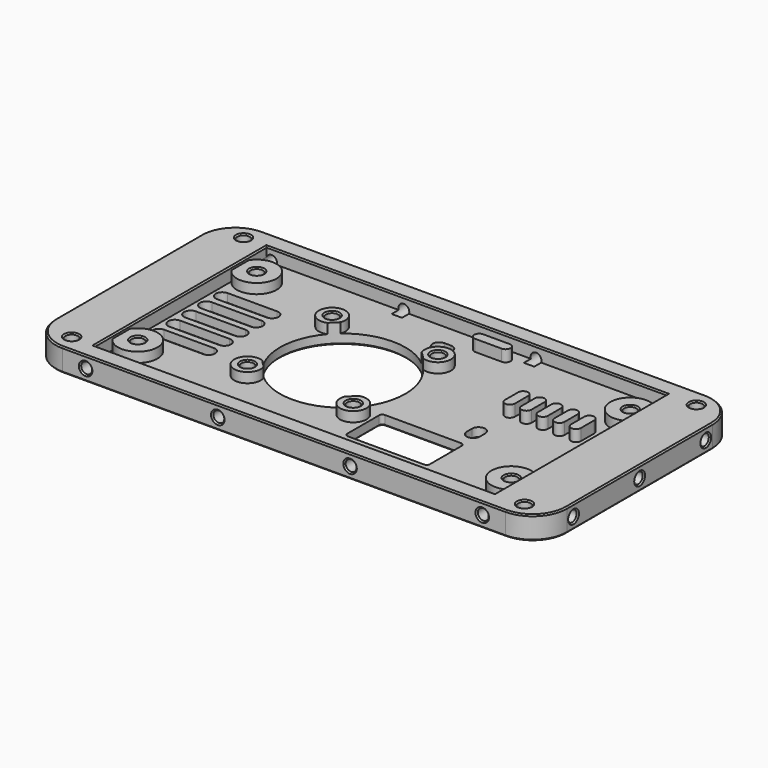
from build123d import *

# Parameters (mm, degrees)
SKETCH008_W           = 154.7
SKETCH008_H           = 75.7
PAD006_DEPTH          = 7
FILLET001_R           = 10.35
SKETCH009_R           = 1.65
POCKET008005_DEPTH    = 8
SKETCH010_R           = 1.65
POCKET008006_DEPTH    = 8
SKETCH011_R           = 1.65
POCKET008007_DEPTH    = 8
SKETCH012_R           = 1.65
POCKET008008_DEPTH    = 7
SKETCH013_W           = 121
SKETCH013_H           = 65
POCKET008009_DEPTH    = 4
SKETCH014_R           = 1.9
POCKET008010_DEPTH    = 7.001
POCKET008011_DEPTH    = 7.001
SKETCH016_R           = 6
SKETCH016_R_2         = 1.9
PAD007_DEPTH          = 3
SKETCH017_R           = 4
PAD008_DEPTH          = 3
SKETCH018_R           = 19
SKETCH018_R_2         = 1.9
SKETCH018_R_3         = 4
POCKET008012_DEPTH    = 7.001
PAD009_DEPTH          = 3.5
CHAMFER036003002_SIZE = 0.4
SKETCH030_W           = 0.5
SKETCH030_H           = 55
POCKET008022_DEPTH    = 5
SKETCH038_W           = 25
SKETCH038_H           = 14
POCKET008027_DEPTH    = 7.001
FILLET008_R           = 1
CHAMFER036003011_SIZE = 0.4
SKETCH039_R           = 5
PAD016_DEPTH          = 3
POCKET008028_DEPTH    = 7.001
CHAMFER036003012_SIZE = 0.4


with BuildPart() as part:
    # Sketch008 → Pad006 (new body)
    with BuildSketch(Plane.XY):
        Rectangle(SKETCH008_W, SKETCH008_H)
    extrude(amount=PAD006_DEPTH)

    # Fillet001
    fillet001_edges = [part.edges().sort_by_distance(p)[0] for p in [
        (77.35, -37.85, 3.5),
        (-77.35, -37.85, 3.5),
        (-77.35, 37.85, 3.5),
        (77.35, 37.85, 3.5),
    ]]
    fillet(fillet001_edges, radius=FILLET001_R)

    # Sketch009 (on Face1 of Fillet001) → Pocket008005 (cut)
    with BuildSketch(Plane(origin=(0, 37.85, 0), x_dir=(-1, 0, 0), z_dir=(0, 1, 0))):
        with Locations((-60, 3.5)):
            Circle(SKETCH009_R)
        with Locations((-20, 3.5)):
            Circle(SKETCH009_R)
        with Locations((20, 3.5)):
            Circle(SKETCH009_R)
        with Locations((60, 3.5)):
            Circle(SKETCH009_R)
    extrude(amount=-POCKET008005_DEPTH, mode=Mode.SUBTRACT)

    # Sketch010 (on Face14 of Pocket008005) → Pocket008006 (cut)
    with BuildSketch(Plane.XZ.offset(37.85)):
        with Locations((-60, 3.5)):
            Circle(SKETCH010_R)
        with Locations((-20, 3.5)):
            Circle(SKETCH010_R)
        with Locations((20, 3.5)):
            Circle(SKETCH010_R)
        with Locations((60, 3.5)):
            Circle(SKETCH010_R)
    extrude(amount=-POCKET008006_DEPTH, mode=Mode.SUBTRACT)

    # Sketch011 (on Face11 of Pocket008006) → Pocket008007 (cut)
    with BuildSketch(Plane.YZ.offset(77.35)):
        with Locations((-25, 3.5)):
            Circle(SKETCH011_R)
        with Locations((0, 3.5)):
            Circle(SKETCH011_R)
        with Locations((25, 3.5)):
            Circle(SKETCH011_R)
    extrude(amount=-POCKET008007_DEPTH, mode=Mode.SUBTRACT)

    # Sketch012 (on Face10 of Pocket008007) → Pocket008008 (cut)
    with BuildSketch(Plane(origin=(-77.35, 0, 0), x_dir=(0, -1, 0), z_dir=(-1, 0, 0))):
        with Locations((-25, 3.5)):
            Circle(SKETCH012_R)
        with Locations((0, 3.5)):
            Circle(SKETCH012_R)
        with Locations((25, 3.5)):
            Circle(SKETCH012_R)
    extrude(amount=-POCKET008008_DEPTH, mode=Mode.SUBTRACT)

    # Sketch013 (on Face5 of Pocket008008) → Pocket008009 (cut)
    with BuildSketch(Plane.XY.offset(7)):
        with Locations((-1, 0)):
            Rectangle(SKETCH013_W, SKETCH013_H)
    extrude(amount=-POCKET008009_DEPTH, mode=Mode.SUBTRACT)

    # Sketch014 (on Face2 of Pocket008009) → Pocket008010 (cut, through all)
    with BuildSketch(Plane(origin=(0, 0, 0), x_dir=(1, 0, 0), z_dir=(0, 0, -1))):
        with Locations((-68.5, 32.5)):
            Circle(SKETCH014_R)
        with Locations((-56.5, 22.5)):
            Circle(SKETCH014_R)
        with Locations((-68.5, -32.5)):
            Circle(SKETCH014_R)
        with Locations((-56.5, -22.5)):
            Circle(SKETCH014_R)
        with Locations((56.5, 22.5)):
            Circle(SKETCH014_R)
        with Locations((68.5, 32.5)):
            Circle(SKETCH014_R)
        with Locations((56.5, -22.5)):
            Circle(SKETCH014_R)
        with Locations((68.5, -32.5)):
            Circle(SKETCH014_R)
    extrude(amount=-POCKET008010_DEPTH, mode=Mode.SUBTRACT)

    # Sketch015 (on Face2 of Pocket008010) → Pocket008011 (cut, through all)
    with BuildSketch(Plane(origin=(0, 0, 0), x_dir=(1, 0, 0), z_dir=(0, 0, -1))):
        with BuildLine():
            ThreePointArc((-58.5, 2), (-60.5, 0), (-58.5, -2))
            Line((-58.5, -2), (-43.5, -2))
            ThreePointArc((-43.5, -2), (-41.5, 0), (-43.5, 2))
            Line((-58.5, 2), (-43.5, 2))
        make_face()
        with BuildLine():
            ThreePointArc((-58.5, 8), (-60.5, 6), (-58.5, 4))
            Line((-58.5, 4), (-43.5, 4))
            ThreePointArc((-43.5, 4), (-41.5, 6), (-43.5, 8))
            Line((-58.5, 8), (-43.5, 8))
        make_face()
        with BuildLine():
            ThreePointArc((-58.5, 14), (-60.5, 12), (-58.5, 10))
            Line((-58.5, 10), (-43.5, 10))
            ThreePointArc((-43.5, 10), (-41.5, 12), (-43.5, 14))
            Line((-58.5, 14), (-43.5, 14))
        make_face()
        with BuildLine():
            ThreePointArc((-58.5, -4), (-60.5, -6), (-58.5, -8))
            Line((-58.5, -8), (-43.5, -8))
            ThreePointArc((-43.5, -8), (-41.5, -6), (-43.5, -4))
            Line((-58.5, -4), (-43.5, -4))
        make_face()
        with BuildLine():
            ThreePointArc((-58.5, -10), (-60.5, -12), (-58.5, -14))
            Line((-58.5, -14), (-43.5, -14))
            ThreePointArc((-43.5, -14), (-41.5, -12), (-43.5, -10))
            Line((-58.5, -10), (-43.5, -10))
        make_face()
    extrude(amount=-POCKET008011_DEPTH, mode=Mode.SUBTRACT)

    # Sketch016 (on Face48 of Pocket008011) → Pad007 (join)
    with BuildSketch(Plane.XY.offset(3)):
        with Locations((-56.5, 22.5)):
            Circle(SKETCH016_R)
        with Locations((-56.5, 22.5)):
            Circle(SKETCH016_R_2, mode=Mode.SUBTRACT)
        with Locations((-56.5, -22.5)):
            Circle(SKETCH016_R)
        with Locations((-56.5, -22.5)):
            Circle(SKETCH016_R_2, mode=Mode.SUBTRACT)
        with Locations((56.5, 22.5)):
            Circle(SKETCH016_R)
        with Locations((56.5, 22.5)):
            Circle(SKETCH016_R_2, mode=Mode.SUBTRACT)
        with Locations((56.5, -22.5)):
            Circle(SKETCH016_R)
        with Locations((56.5, -22.5)):
            Circle(SKETCH016_R_2, mode=Mode.SUBTRACT)
    extrude(amount=PAD007_DEPTH)

    # Sketch017 (on Face48 of Pad007) → Pad008 (join)
    with BuildSketch(Plane.XY.offset(3)):
        with Locations((-28.5, 16)):
            Circle(SKETCH017_R)
        with Locations((3.5, 16)):
            Circle(SKETCH017_R)
        with Locations((-28.5, -16)):
            Circle(SKETCH017_R)
        with Locations((3.5, -16)):
            Circle(SKETCH017_R)
    extrude(amount=PAD008_DEPTH)

    # Sketch018 (on Face2 of Pad008) → Pocket008012 (cut, through all)
    with BuildSketch(Plane(origin=(0, 0, 0), x_dir=(1, 0, 0), z_dir=(0, 0, -1))):
        with Locations((-12.5, 0)):
            Circle(SKETCH018_R)
        with Locations((-28.5, 16)):
            Circle(SKETCH018_R_2)
        with Locations((3.5, 16)):
            Circle(SKETCH018_R_2)
        with Locations((3.5, -16)):
            Circle(SKETCH018_R_2)
        with Locations((-28.5, -16)):
            Circle(SKETCH018_R_2)
        with Locations((22.5, -22)):
            Circle(SKETCH018_R_3)
        with BuildLine():
            ThreePointArc((-2.5, -22), (-4.5, -24), (-2.5, -26))
            Line((-2.5, -26), (-0.5, -26))
            ThreePointArc((-0.5, -26), (1.5, -24), (-0.5, -22))
            Line((-2.5, -22), (-0.5, -22))
        make_face()
    extrude(amount=-POCKET008012_DEPTH, mode=Mode.SUBTRACT)

    # Sketch019 (on Face58 of Pocket008012) → Pad009 (join)
    with BuildSketch(Plane.XY.offset(3)):
        with BuildLine():
            ThreePointArc((34, 12), (32.5, 13.5), (31, 12))
            Line((31, 12), (31, 7))
            ThreePointArc((31, 7), (32.5, 5.5), (34, 7))
            Line((34, 12), (34, 7))
        make_face()
        with BuildLine():
            ThreePointArc((39, 12), (37.5, 13.5), (36, 12))
            Line((36, 12), (36, 7))
            ThreePointArc((36, 7), (37.5, 5.5), (39, 7))
            Line((39, 12), (39, 7))
        make_face()
        with BuildLine():
            ThreePointArc((44, 12), (42.5, 13.5), (41, 12))
            Line((41, 12), (41, 7))
            ThreePointArc((41, 7), (42.5, 5.5), (44, 7))
            Line((44, 12), (44, 7))
        make_face()
        with BuildLine():
            ThreePointArc((49, 12), (47.5, 13.5), (46, 12))
            Line((46, 12), (46, 7))
            ThreePointArc((46, 7), (47.5, 5.5), (49, 7))
            Line((49, 12), (49, 7))
        make_face()
        with BuildLine():
            ThreePointArc((54, 12), (52.5, 13.5), (51, 12))
            Line((51, 12), (51, 7))
            ThreePointArc((51, 7), (52.5, 5.5), (54, 7))
            Line((54, 12), (54, 7))
        make_face()
        with BuildLine():
            ThreePointArc((6, 30), (4.5, 28.5), (6, 27))
            Line((6, 27), (14, 27))
            ThreePointArc((14, 27), (15.5, 28.5), (14, 30))
            Line((6, 30), (14, 30))
        make_face()
    extrude(amount=PAD009_DEPTH)

    # Chamfer036003002
    chamfer036003002_edges = [part.edges().sort_by_distance(p)[0] for p in [
        (0, 37.85, 0),
        (-74.318555, 34.818555, 0),
        (74.318555, 34.818555, 0),
        (-77.35, 0, 0),
        (77.35, 0, 0),
        (-74.318555, -34.818555, 0),
        (74.318555, -34.818555, 0),
        (0, -37.85, 0),
        (66.6, -32.5, 0),
        (54.6, -22.5, 0),
        (1.6, -16, 0),
        (-70.4, -32.5, 0),
        (-58.4, -22.5, 0),
        (-30.4, -16, 0),
        (-60.5, -12, 0),
        (-51, -14, 0),
        (-51, -10, 0),
        (-41.5, -12, 0),
        (-60.5, -6, 0),
        (-51, -8, 0),
        (-51, -4, 0),
        (-41.5, -6, 0),
        (1.6, 16, 0),
        (54.6, 22.5, 0),
        (66.6, 32.5, 0),
        (18.5, 22, 0),
        (-31.5, 0, 0),
        (-30.4, 16, 0),
        (-60.5, 0, 0),
        (-51, -2, 0),
        (-51, 2, 0),
        (-41.5, 0, 0),
        (-60.5, 6, 0),
        (-51, 4, 0),
        (-51, 8, 0),
        (-41.5, 6, 0),
        (-60.5, 12, 0),
        (-51, 10, 0),
        (-51, 14, 0),
        (-41.5, 12, 0),
        (-4.5, 24, 0),
        (-1.5, 26, 0),
        (1.5, 24, 0),
        (-1.5, 22, 0),
        (-58.4, 22.5, 0),
        (-70.4, 32.5, 0),
        (0, 37.85, 7),
        (-74.318555, 34.818555, 7),
        (74.318555, 34.818555, 7),
        (-77.35, 0, 7),
        (77.35, 0, 7),
        (-74.318555, -34.818555, 7),
        (74.318555, -34.818555, 7),
        (0, -37.85, 7),
        (66.6, -32.5, 7),
        (-70.4, -32.5, 7),
        (66.6, 32.5, 7),
        (-1, 32.5, 7),
        (-61.5, 0, 7),
        (59.5, 0, 7),
        (-1, -32.5, 7),
        (-70.4, 32.5, 7),
        (-58.4, -22.5, 6),
        (-58.4, 22.5, 6),
        (-30.4, 16, 6),
        (-30.4, -16, 6),
        (1.6, 16, 6),
        (1.6, -16, 6),
        (54.6, 22.5, 6),
        (54.6, -22.5, 6),
        (-61.65, -37.85, 3.5),
        (-21.65, -37.85, 3.5),
        (18.35, -37.85, 3.5),
        (58.35, -37.85, 3.5),
        (77.35, -26.65, 3.5),
        (77.35, -1.65, 3.5),
        (77.35, 23.35, 3.5),
        (61.65, 37.85, 3.5),
        (21.65, 37.85, 3.5),
        (-18.35, 37.85, 3.5),
        (-58.35, 37.85, 3.5),
        (18.5, 22, 3),
    ]]
    chamfer(chamfer036003002_edges, length=CHAMFER036003002_SIZE)

    # Sketch030 (on DatumPlane) → Pocket008022 (cut)
    with BuildSketch(Plane.XY.offset(1)):
        with Locations((-66.25, 0)):
            Rectangle(SKETCH030_W, SKETCH030_H)
        with Locations((66.25, 0)):
            Rectangle(SKETCH030_W, SKETCH030_H)
    extrude(amount=POCKET008022_DEPTH, mode=Mode.SUBTRACT)

    # Sketch038 (on Face13 of Pocket008022) → Pocket008027 (cut, through all)
    with BuildSketch(Plane(origin=(0, 0, 0), x_dir=(1, 0, 0), z_dir=(0, 0, -1))):
        with Locations((21, 18.5)):
            Rectangle(SKETCH038_W, SKETCH038_H)
    extrude(amount=-POCKET008027_DEPTH, mode=Mode.SUBTRACT)

    # Fillet008
    fillet008_edges = [part.edges().sort_by_distance(p)[0] for p in [
        (8.5, -25.5, 1.5),
        (8.5, -11.5, 1.5),
        (33.5, -11.5, 1.5),
        (33.5, -25.5, 1.5),
    ]]
    fillet(fillet008_edges, radius=FILLET008_R)

    # Chamfer036003011
    chamfer036003011_edges = [part.edges().sort_by_distance(p)[0] for p in [
        (21, -25.5, 0),
    ]]
    chamfer(chamfer036003011_edges, length=CHAMFER036003011_SIZE)

    # Sketch039 (on Face1 of Chamfer036003011) → Pad016 (join)
    with BuildSketch(Plane(origin=(0, 0, 0), x_dir=(1, 0, 0), z_dir=(0, 0, -1))):
        with Locations((22.5, -22)):
            Circle(SKETCH039_R)
    extrude(amount=-PAD016_DEPTH)

    # Sketch040 (on Face105 of Pad016) → Pocket008028 (cut, through all)
    with BuildSketch(Plane(origin=(0, 0, 0), x_dir=(1, 0, 0), z_dir=(0, 0, -1))):
        with BuildLine():
            ThreePointArc((33.9, 6.1), (31.9, 8.1), (29.9, 6.1))
            Line((29.9, 6.1), (29.9, 4.1))
            ThreePointArc((29.9, 4.1), (31.9, 2.1), (33.9, 4.1))
            Line((33.9, 6.1), (33.9, 4.1))
        make_face()
    extrude(amount=-POCKET008028_DEPTH, mode=Mode.SUBTRACT)

    # Chamfer036003012
    chamfer036003012_edges = [part.edges().sort_by_distance(p)[0] for p in [
        (31.9, -8.1, 0),
    ]]
    chamfer(chamfer036003012_edges, length=CHAMFER036003012_SIZE)


with BuildPart() as part_1:
    # Body001 placement: moved
    add(part.part.moved(Location((0, 0, -8))))


solid = part_1.part
